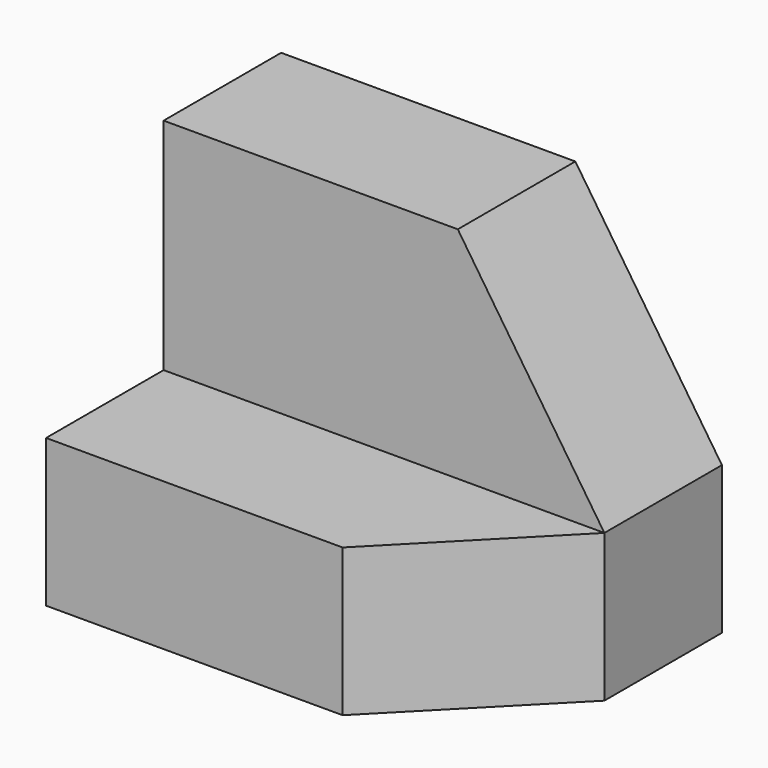
from build123d import *

# Parameters (mm, degrees)
F0_W     = 38.1
F0_H     = 31.75
F1_DEPTH = 25.4
F3_DEPTH = 25.401
F5_DEPTH = 12.7
F7_DEPTH = 12.766414


with BuildPart() as f1:
    # F0 (on Front) → F1 (new body)
    with BuildSketch(Plane.XZ):
        with Locations((19.05, 15.875)):
            Rectangle(F0_W, F0_H)
    extrude(amount=F1_DEPTH)

    # F2 (on face) → F3 (cut, through all)
    with BuildSketch(Plane.XZ.offset(25.4)):
        Polygon((25.430316, 31.75), (38.1, 12.765414), (38.1, 31.75), align=None)
    extrude(amount=-F3_DEPTH, mode=Mode.SUBTRACT)

    # F4 (on face) → F5 (cut)
    with BuildSketch(Plane.XZ.offset(25.4)):
        Polygon((0, 12.765414), (38.1, 12.765414), (25.430316, 31.75), (0, 31.75), align=None)
    extrude(amount=-F5_DEPTH, mode=Mode.SUBTRACT)

    # F6 (on face) → F7 (cut, through all)
    with BuildSketch(Plane.XY.offset(12.765414)):
        Polygon((38.1, -12.7), (25.631344, -25.4), (38.1, -25.4), align=None)
    extrude(amount=-F7_DEPTH, mode=Mode.SUBTRACT)


solid = f1.part
